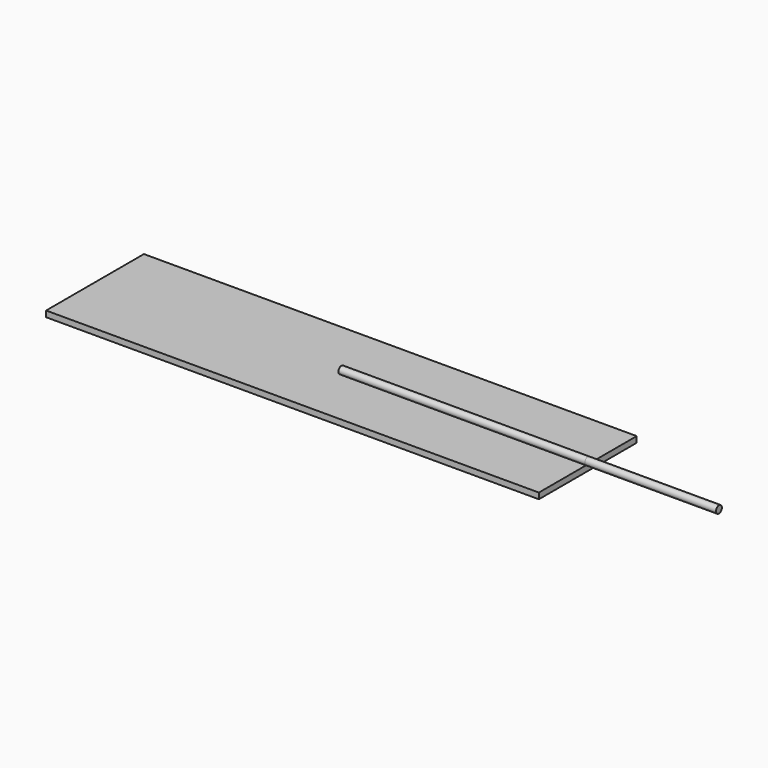
from build123d import *

# Parameters (mm, degrees)
F0_W          = 66.5
F0_H          = 16.5
F1_DEPTH      = 0.8
F2_R          = 0.5
F3_DEPTH      = 17.7
F3_DEPTH_BACK = 33.25


with BuildPart() as f1:
    # F0 (on Top) → F1 (new body)
    with BuildSketch(Plane.XY):
        with Locations((33.25, 8.25)):
            Rectangle(F0_W, F0_H)
    extrude(amount=F1_DEPTH)

    # F2 (on face) → F3 (join, two sides)
    with BuildSketch(Plane.YZ.offset(66.5)) as f3_sk:
        with Locations((8.25, 1.2)):
            Circle(F2_R)
    extrude(amount=F3_DEPTH)
    extrude(f3_sk.sketch, amount=-F3_DEPTH_BACK)


solid = f1.part
